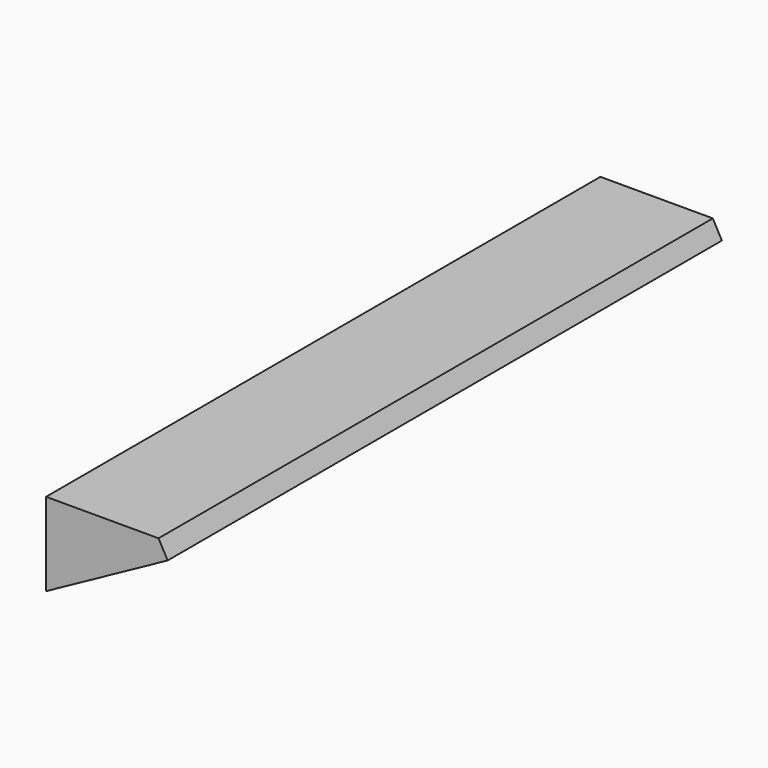
from build123d import *

# Parameters (mm, degrees)
F1_DEPTH = 125
F2_R     = 21
F3_DEPTH = 5


with BuildPart() as f1:
    # F0 (on Front) → F1 (new body, symmetric)
    with BuildSketch(Plane.XZ):
        Polygon((0, 30), (0, 0), (43.8573081853, 24.0111748722), (40.5785222002, 30), align=None)
    extrude(amount=F1_DEPTH, both=True)

    # F2 (on face) → F3 (cut)
    with BuildSketch(Plane(origin=(0, 0, 0), x_dir=(0.8771461637, 0, 0.4802234974), z_dir=(0.4802234974, 0, -0.8771461637))):
        with Locations((25, 91.25)):
            Circle(F2_R)
        with Locations((25, -91.25)):
            Circle(F2_R)
    extrude(amount=-F3_DEPTH, mode=Mode.SUBTRACT)


solid = f1.part
